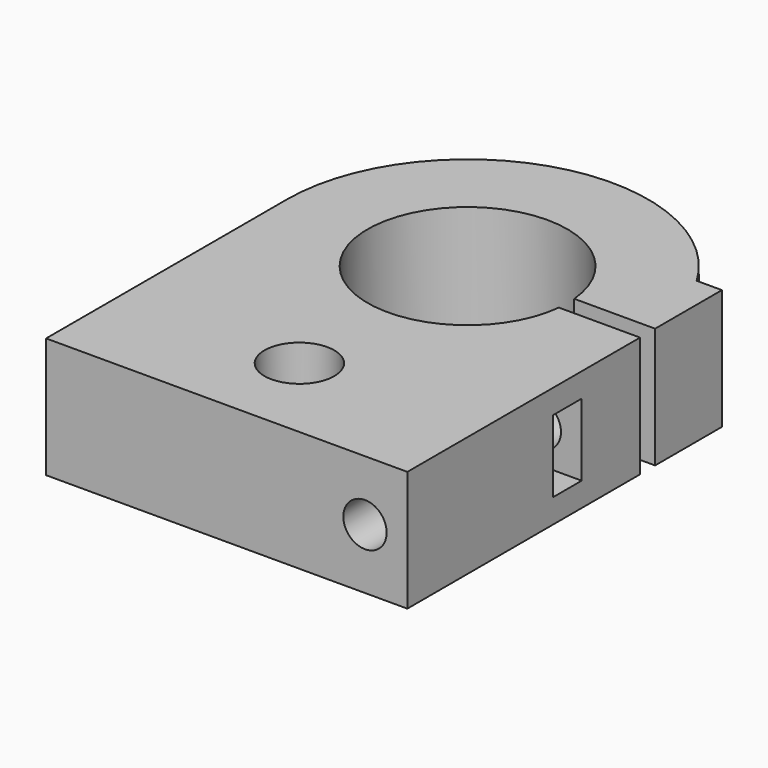
from build123d import *

# Parameters (mm, degrees)
F1_DEPTH       = 10
F3_D           = 5.8
F3_CBORE_D     = 9.75
F3_CBORE_DEPTH = 5
F4_R           = 3.3399169876
F5_DEPTH       = 25
F6_D           = 3.6
F6_CBORE_D     = 6.5
F6_CBORE_DEPTH = 3
F7_W           = 3
F7_H           = 6
F8_DEPTH       = 7
F9_R           = 1


with BuildPart() as f1:
    # F0 (on Top) → F1 (new body)
    with BuildSketch(Plane.XY):
        with BuildLine():
            Line((-15, 12.5), (-15, -12.5))
            Line((-15, -12.5), (15, -12.5))
            Line((15, -12.5), (15, 11.6508761421))
            Line((15, 11.6508761421), (8.2564513366, 11.6508761421))
            ThreePointArc((8.2564513366, 11.6508761421), (-8.2998116615, 12.5559140775), (8.2671421606, 13.2378078997))
            Line((8.2671421606, 13.2378078997), (14.9818436617, 13.2378078997))
            Line((14.9818436617, 13.2378078997), (14.9818436617, 20.172925666))
            Line((14.9818436617, 20.172925666), (12.8889957609, 20.172925666))
            ThreePointArc((12.8889957609, 20.172925666), (-3.979011409, 26.962623144), (-15, 12.5))
        make_face()
    extrude(amount=F1_DEPTH)

    # F3 (through all)
    with Locations(Plane(origin=(0, 0, 0), x_dir=(1, 0, 0), z_dir=(0, 0, -1))):
        with Locations((0, 4.9573802389)):
            CounterBoreHole(F3_D / 2, F3_CBORE_D / 2, F3_CBORE_DEPTH)

    # F4 (on face) → F5 (cut)
    with BuildSketch(Plane(origin=(0, 20.172925666, 0), x_dir=(-1, 0, 0), z_dir=(0, 1, 0))):
        with Locations((-11.4818436617, 5)):
            Circle(F4_R)
    extrude(amount=F5_DEPTH, mode=Mode.SUBTRACT)

    # F6 (through all)
    with Locations(Plane(origin=(0, 20.172925666, 0), x_dir=(-1, 0, 0), z_dir=(0, 1, 0))):
        with Locations((-11.4818436617, 5)):
            CounterBoreHole(F6_D / 2, F6_CBORE_D / 2, F6_CBORE_DEPTH)

    # F7 (on face) → F8 (cut)
    with BuildSketch(Plane.YZ.offset(15)):
        with Locations((4.0933839045, 5)):
            Rectangle(F7_W, F7_H)
    extrude(amount=-F8_DEPTH, mode=Mode.SUBTRACT)

    # F9
    f9_edges = [f1.edges().sort_by_distance(p)[0] for p in [
        (-8.299812, 12.555914, 0),
    ]]
    fillet(f9_edges, radius=F9_R)


solid = f1.part
